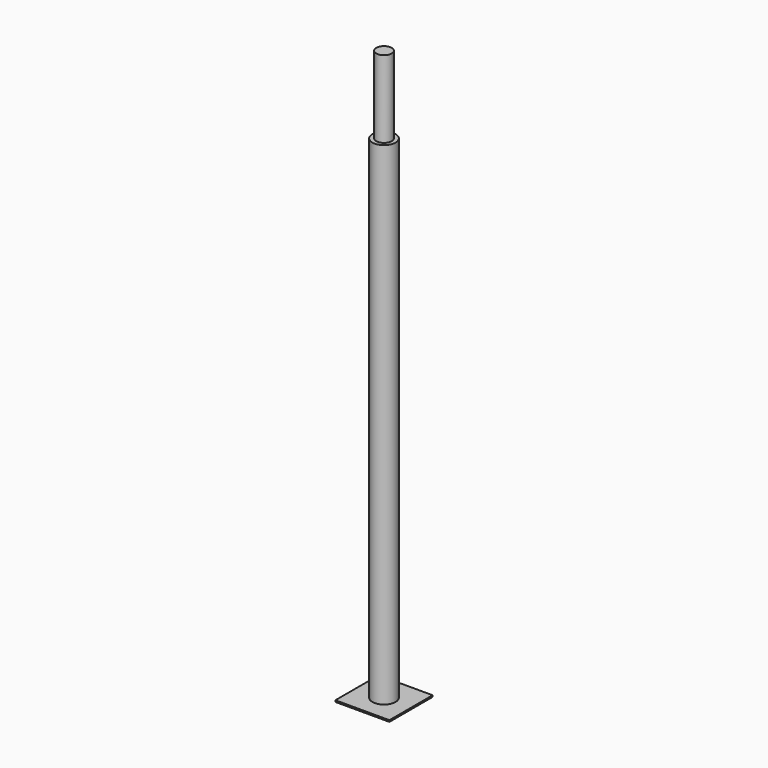
from build123d import *

# Parameters (mm, degrees)
F0_W     = 350
F0_H     = 350
F1_DEPTH = 10
F2_R     = 75
F3_DEPTH = 3690
F4_R     = 75
F4_R_2   = 50
F5_DEPTH = 500


with BuildPart() as f1:
    # F0 (on Top) → F1 (new body)
    with BuildSketch(Plane.XY):
        Rectangle(F0_W, F0_H)
    extrude(amount=F1_DEPTH)

    # F2 (on face) → F3 (join)
    with BuildSketch(Plane.XY.offset(10)):
        Circle(F2_R)
    extrude(amount=F3_DEPTH)

    # F4 (on face) → F5 (cut)
    with BuildSketch(Plane.XY.offset(3700)):
        Circle(F4_R)
        Circle(F4_R_2, mode=Mode.SUBTRACT)
    extrude(amount=-F5_DEPTH, mode=Mode.SUBTRACT)


solid = f1.part
